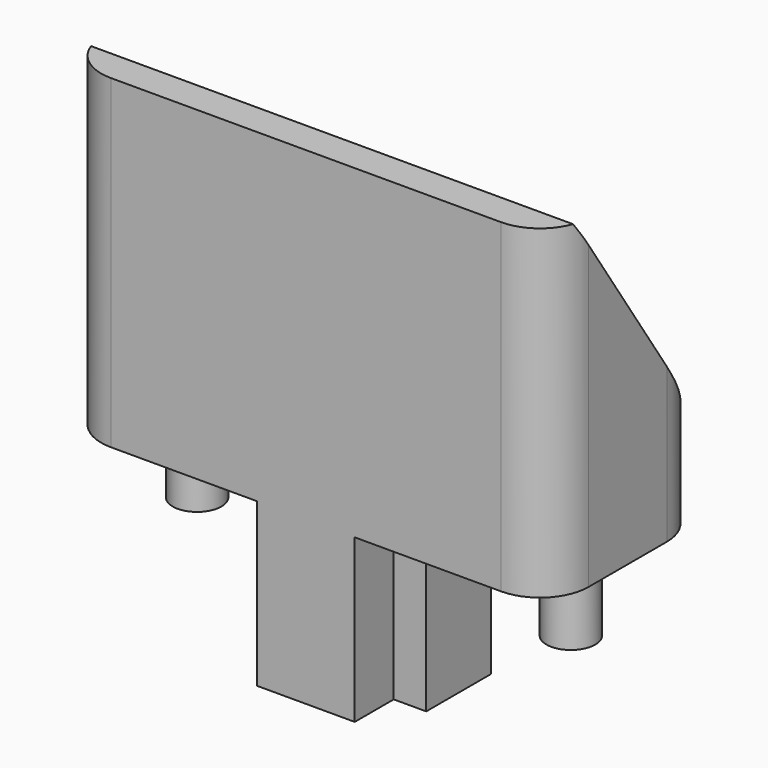
from build123d import *

# Parameters (mm, degrees)
SKETCH_W      = 30
SKETCH_H      = 12
PAD_DEPTH     = 20
PAD001_DEPTH  = 10
SKETCH002_R   = 1.5
PAD002_DEPTH  = 5
CHAMFER_SIZE2 = 15
CHAMFER_SIZE  = 10
FILLET_R      = 3


with BuildPart() as part:
    # Sketch → Pad (new body)
    with BuildSketch(Plane.XY):
        with Locations((15, 6)):
            Rectangle(SKETCH_W, SKETCH_H)
    extrude(amount=PAD_DEPTH)

    # Sketch001 (on Face5 of Pad) → Pad001 (join)
    with BuildSketch(Plane(origin=(0, 0, 0), x_dir=(1, 0, 0), z_dir=(0, 0, -1))):
        Polygon((12, 0), (18, 0), (18, -3), (20, -3), (20, -8), (10, -8), (10, -3), (12, -3), align=None)
    extrude(amount=PAD001_DEPTH)

    # Sketch002 (on Face4 of Pad001) → Pad002 (join)
    with BuildSketch(Plane(origin=(0, 0, 0), x_dir=(1, 0, 0), z_dir=(0, 0, -1))):
        with Locations((3.5, -6)):
            Circle(SKETCH002_R)
        with Locations((26.5, -6)):
            Circle(SKETCH002_R)
    extrude(amount=PAD002_DEPTH)

    # Chamfer
    chamfer_edges = [part.edges().sort_by_distance(p)[0] for p in [
        (15, 12, 20),
    ]]
    chamfer_side = part.faces().sort_by_distance((15, 6, 20))[0]
    chamfer(chamfer_edges, length=CHAMFER_SIZE, length2=CHAMFER_SIZE2, reference=chamfer_side)

    # Fillet
    fillet_edges = [part.edges().sort_by_distance(p)[0] for p in [
        (0, 12, 2.5),
        (0, 0, 10),
        (30, 12, 2.5),
        (30, 0, 10),
    ]]
    fillet(fillet_edges, radius=FILLET_R)


solid = part.part
